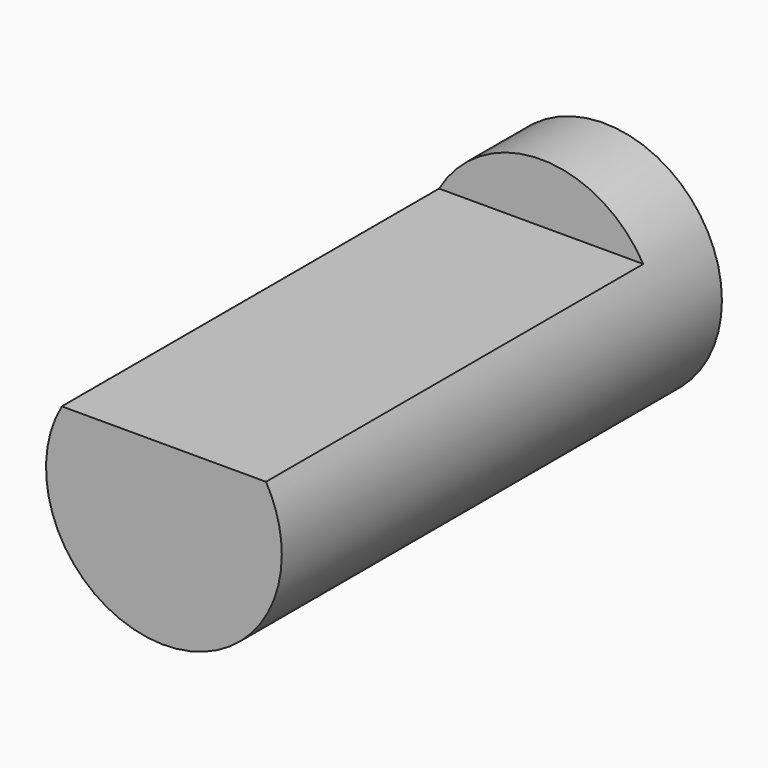
from build123d import *

# Parameters (mm, degrees)
BOX014_W          = 6
BOX014_H          = 1.5
BOX014_DEPTH      = 12
CYLINDER005_R     = 3
CYLINDER005_DEPTH = 14


with BuildPart() as cube:
    # Box014 → Box014 (new body)
    with BuildSketch(Plane(origin=(-3, -7.44, 8.1), x_dir=(1, 0, 0), z_dir=(0, -1, 0))):
        with Locations((3, 0.75)):
            Rectangle(BOX014_W, BOX014_H)
    extrude(amount=BOX014_DEPTH)


with BuildPart() as shaft:
    # Cylinder005 → Cylinder005 (new body)
    with BuildSketch(Plane(origin=(0, -5.44, 6.6), x_dir=(1, 0, 0), z_dir=(0, -1, 0))):
        Circle(CYLINDER005_R)
    extrude(amount=CYLINDER005_DEPTH)

    # Cut: cut Cube
    add(cube.part, mode=Mode.SUBTRACT)


solid = shaft.part
